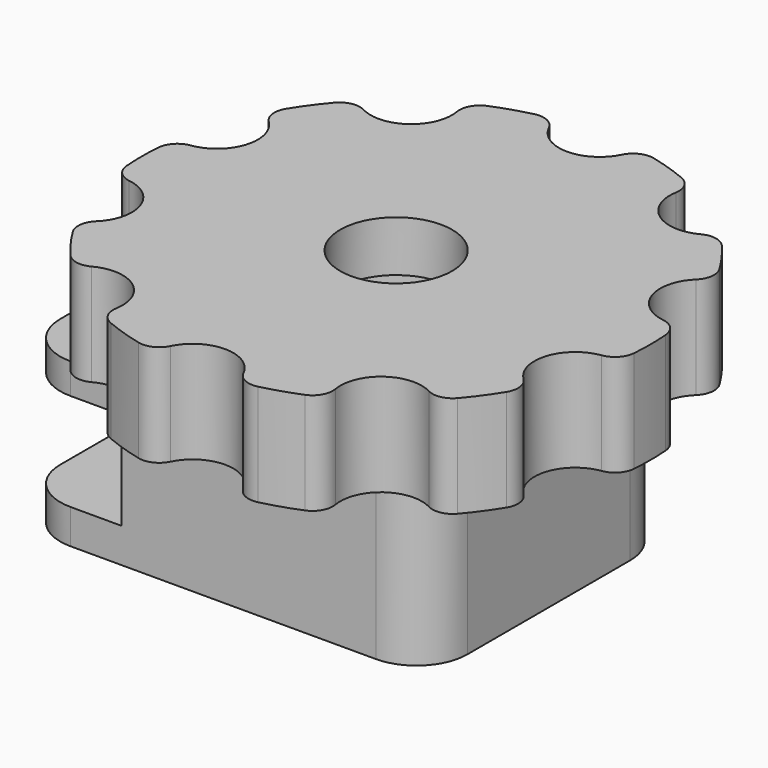
from build123d import *

# Parameters (mm, degrees)
F0_W      = 20
F0_H      = 15
F0_R      = 2.75
F1_DEPTH  = 8
F2_W      = 15
F2_H      = 4.8
F3_DEPTH  = 5
F4_R      = 4.6
F5_DEPTH  = 6
F6_R      = 2.5
F7_R      = 2.5
F8_R      = 2.75
F9_DEPTH  = 5
F10_R     = 1
F12_DEPTH = 2.5


with BuildPart() as f1:
    # F0 (on Top) → F1 (new body)
    with BuildSketch(Plane.XY):
        with Locations((-2.5, 0)):
            Rectangle(F0_W, F0_H)
        Circle(F0_R, mode=Mode.SUBTRACT)
    extrude(amount=F1_DEPTH)

    # F2 (on face) → F3 (cut)
    with BuildSketch(Plane(origin=(-12.5, 0, 0), x_dir=(0, -1, 0), z_dir=(-1, 0, 0))):
        with Locations((0, 4.1)):
            Rectangle(F2_W, F2_H)
    extrude(amount=-F3_DEPTH, mode=Mode.SUBTRACT)

    # F4 (on face) → F5 (cut)
    with BuildSketch(Plane(origin=(0, 0, 0), x_dir=(1, 0, 0), z_dir=(0, 0, -1))):
        Circle(F4_R)
    extrude(amount=-F5_DEPTH, mode=Mode.SUBTRACT)

    # F6
    f6_edges = [f1.edges().sort_by_distance(p)[0] for p in [
        (7.5, -7.5, 4),
        (7.5, 7.5, 4),
    ]]
    fillet(f6_edges, radius=F6_R)

    # F7
    f7_edges = [f1.edges().sort_by_distance(p)[0] for p in [
        (-12.5, -7.5, 0.85),
        (-12.5, -7.5, 7.25),
        (-12.5, 7.5, 0.85),
        (-12.5, 7.5, 7.25),
    ]]
    fillet(f7_edges, radius=F7_R)


with BuildPart() as f9:
    # F8 (on face) → F9 (new body)
    with BuildSketch(Plane.XY.offset(8)):
        with BuildLine():
            ThreePointArc((1.99359, 12.34), (0, 10.5), (-1.99359, 12.34))
            ThreePointArc((-1.99359, 12.34), (-3.862712, 11.888206), (-5.640422, 11.155072))
            ThreePointArc((-5.640422, 11.155072), (-6.171745, 8.494678), (-8.866118, 8.811467))
            ThreePointArc((-8.866118, 8.811467), (-10.112712, 7.347316), (-11.119984, 5.709286))
            ThreePointArc((-11.119984, 5.709286), (-9.986093, 3.244678), (-12.352091, 1.917253))
            ThreePointArc((-12.352091, 1.917253), (-12.5, 0), (-12.352091, -1.917253))
            ThreePointArc((-12.352091, -1.917253), (-9.986093, -3.244678), (-11.119984, -5.709286))
            ThreePointArc((-11.119984, -5.709286), (-10.112712, -7.347316), (-8.866118, -8.811467))
            ThreePointArc((-8.866118, -8.811467), (-6.171745, -8.494678), (-5.640422, -11.155072))
            ThreePointArc((-5.640422, -11.155072), (-3.862712, -11.888206), (-1.99359, -12.34))
            ThreePointArc((-1.99359, -12.34), (0, -10.5), (1.99359, -12.34))
            ThreePointArc((1.99359, -12.34), (3.862712, -11.888206), (5.640422, -11.155072))
            ThreePointArc((5.640422, -11.155072), (6.171745, -8.494678), (8.866118, -8.811467))
            ThreePointArc((8.866118, -8.811467), (10.112712, -7.347316), (11.119984, -5.709286))
            ThreePointArc((11.119984, -5.709286), (9.986093, -3.244678), (12.352091, -1.917253))
            ThreePointArc((12.352091, -1.917253), (12.5, 0), (12.352091, 1.917253))
            ThreePointArc((12.352091, 1.917253), (9.986093, 3.244678), (11.119984, 5.709286))
            ThreePointArc((11.119984, 5.709286), (10.112712, 7.347316), (8.866118, 8.811467))
            ThreePointArc((8.866118, 8.811467), (6.171745, 8.494678), (5.640422, 11.155072))
            ThreePointArc((5.640422, 11.155072), (3.862712, 11.888206), (1.99359, 12.34))
        make_face()
        Circle(F8_R, mode=Mode.SUBTRACT)
    extrude(amount=F9_DEPTH)

    # F10
    f10_edges = [f9.edges().sort_by_distance(p)[0] for p in [
        (-8.866118, -8.811467, 10.5),
        (-5.640422, -11.155072, 10.5),
        (-1.99359, -12.34, 10.5),
        (1.99359, -12.34, 10.5),
        (5.640422, -11.155072, 10.5),
        (8.866118, -8.811467, 10.5),
        (11.119984, -5.709286, 10.5),
        (12.352091, -1.917253, 10.5),
        (12.352091, 1.917253, 10.5),
        (11.119984, 5.709286, 10.5),
        (8.866118, 8.811467, 10.5),
        (5.640422, 11.155072, 10.5),
        (-12.352091, -1.917253, 10.5),
        (-11.119984, -5.709286, 10.5),
        (-12.352091, 1.917253, 10.5),
        (-11.119984, 5.709286, 10.5),
        (1.99359, 12.34, 10.5),
        (-1.99359, 12.34, 10.5),
        (-5.640422, 11.155072, 10.5),
        (-8.866118, 8.811467, 10.5),
    ]]
    fillet(f10_edges, radius=F10_R)

    # F11 (on face) → F12 (cut)
    with BuildSketch(Plane(origin=(0, 0, 8), x_dir=(1, 0, 0), z_dir=(0, 0, -1))):
        Polygon((-3.958156, 2.317998), (-3.958156, -2.24307), (-0.008156, -4.523603), (3.941844, -2.24307), (3.941844, 2.317998), (-0.008156, 4.598531), align=None)
    extrude(amount=-F12_DEPTH, mode=Mode.SUBTRACT)


solid = Compound([f1.part, f9.part])
